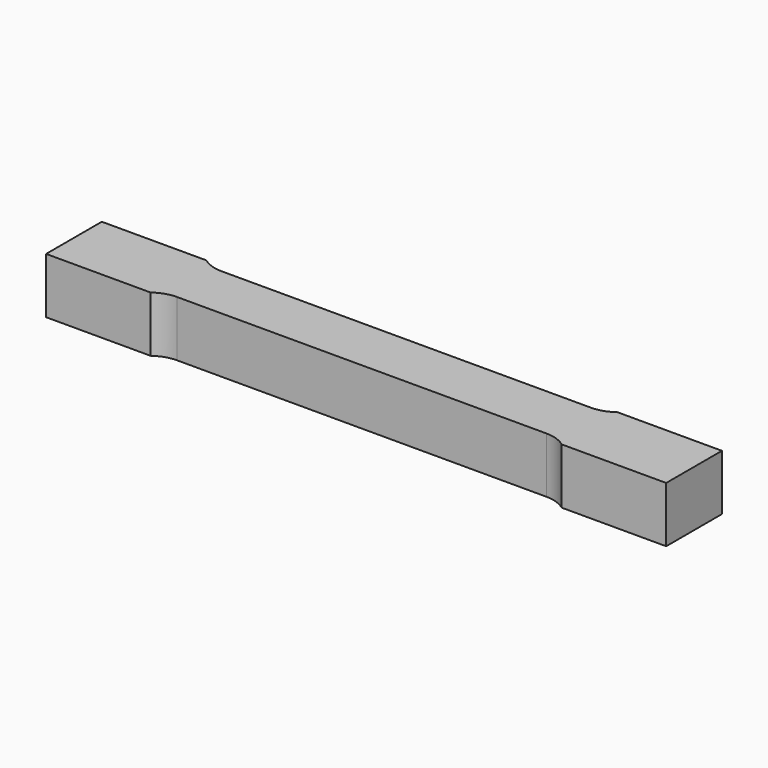
from build123d import *

# Parameters (mm, degrees)
F1_DEPTH = 20


with BuildPart() as f1:
    # F0 (on Top) → F1 (new body, symmetric)
    with BuildSketch(Plane.XY):
        with BuildLine():
            Line((132.5, 20), (0, 20))
            Line((0, 20), (-132.5, 20))
            ThreePointArc((-132.5, 20), (-140.405694, 21.282918), (-147.5, 25))
            Line((-147.5, 25), (-222.5, 25))
            Line((-222.5, 25), (-222.5, 0))
            Line((-222.5, 0), (-222.5, -25))
            Line((-222.5, -25), (-147.5, -25))
            ThreePointArc((-147.5, -25), (-140.405694, -21.282918), (-132.5, -20))
            Line((-132.5, -20), (0, -20))
            Line((0, -20), (132.5, -20))
            ThreePointArc((132.5, -20), (140.405694, -21.282918), (147.5, -25))
            Line((147.5, -25), (222.5, -25))
            Line((222.5, -25), (222.5, 0))
            Line((222.5, 0), (222.5, 25))
            Line((222.5, 25), (147.5, 25))
            ThreePointArc((147.5, 25), (140.405694, 21.282918), (132.5, 20))
        make_face()
    extrude(amount=F1_DEPTH, both=True)


solid = f1.part
